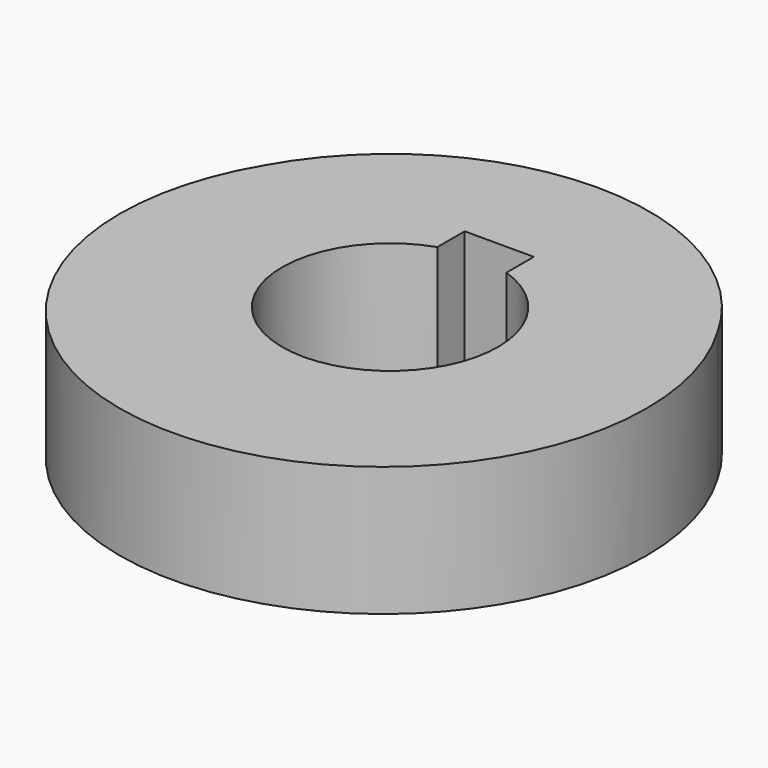
from build123d import *

# Parameters (mm, degrees)
F1_DEPTH = 150
F3_DEPTH = 264.16


with BuildPart() as f1:
    # F0 (on Top) → F1 (new body)
    with BuildSketch(Plane.XY):
        with BuildLine():
            ThreePointArc((-261.9368960265, 146.25), (-75.5610057902, -290.3283217393), (300, 0))
            ThreePointArc((300, 0), (290.3283217393, 75.5610057902), (261.9368960265, 146.25))
            ThreePointArc((261.9368960265, 146.25), (0, 295), (-261.9368960265, 146.25))
        make_face()
        with BuildLine():
            ThreePointArc((261.9368960265, 146.25), (290.3283217393, 75.5610057902), (300, 0))
            ThreePointArc((300, 0), (-75.5610057902, -290.3283217393), (-261.9368960265, 146.25))
            ThreePointArc((-261.9368960265, 146.25), (-81.0377896784, -304.0372028231), (305, -10))
            ThreePointArc((305, -10), (294.0372028231, 71.0377896784), (261.9368960265, 146.25))
        make_face()
        with BuildLine():
            ThreePointArc((-261.9368960265, 146.25), (0, 295), (261.9368960265, 146.25))
            ThreePointArc((261.9368960265, 146.25), (0, 300), (-261.9368960265, 146.25))
        make_face()
        with BuildLine():
            ThreePointArc((-261.9368960265, 146.25), (-75.5610057902, -290.3283217393), (300, 0))
            ThreePointArc((300, 0), (290.3283217393, 75.5610057902), (261.9368960265, 146.25))
            ThreePointArc((261.9368960265, 146.25), (0, 295), (-261.9368960265, 146.25))
        make_face()
    extrude(amount=-F1_DEPTH)

    # F2 (on Top) → F3 (cut)
    with BuildSketch(Plane.XY):
        with BuildLine():
            ThreePointArc((-40, 118.4271928233), (-72.8868986856, -101.5504800579), (125, 0))
            ThreePointArc((125, 0), (101.5504800579, 72.8868986856), (40, 118.4271928233))
            Line((40, 118.4271928233), (40, 0))
            Line((40, 0), (-40, 0))
            Line((-40, 0), (-40, 118.4271928233))
        make_face()
        with BuildLine():
            Line((40, 0), (40, 118.4271928233))
            ThreePointArc((40, 118.4271928233), (0, 125), (-40, 118.4271928233))
            Line((-40, 118.4271928233), (-40, 0))
            Line((-40, 0), (40, 0))
        make_face()
        with BuildLine():
            ThreePointArc((-40, 118.4271928233), (0, 125), (40, 118.4271928233))
            Line((40, 118.4271928233), (40, 158))
            Line((40, 158), (-40, 158))
            Line((-40, 158), (-40, 118.4271928233))
        make_face()
    extrude(amount=-F3_DEPTH, mode=Mode.SUBTRACT)


solid = f1.part
